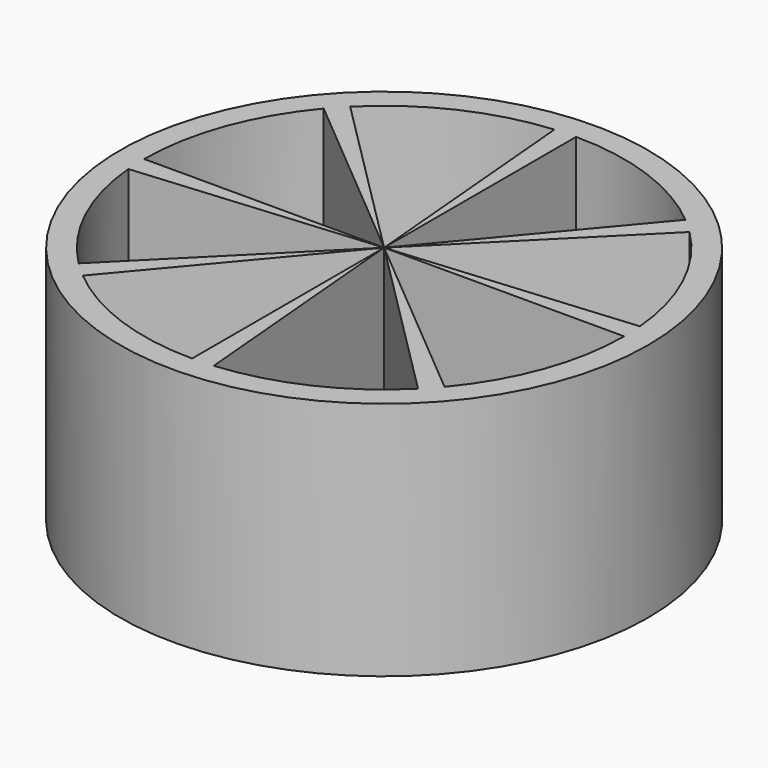
from build123d import *

# Parameters (mm, degrees)
CYLINDER001_W     = 10
CYLINDER001_H     = 10
CYLINDER001_ANGLE = 320
CYLINDER_R        = 10
CYLINDER_DEPTH    = 10
ARRAY_COUNT       = 8
CYLINDER002_R     = 11
CYLINDER002_DEPTH = 10


with BuildPart() as cilindro:
    # Cylinder001 → Cylinder001 (revolve)
    with BuildSketch(Plane.XZ):
        with Locations((5, 5)):
            Rectangle(CYLINDER001_W, CYLINDER001_H)
    revolve(axis=Axis((0, 0, 0), (0, 0, 1)), revolution_arc=CYLINDER001_ANGLE)


with BuildPart() as array:
    # Cylinder → Cylinder (new body)
    with BuildSketch(Plane.XY):
        Circle(CYLINDER_R)
    extrude(amount=CYLINDER_DEPTH)

    # Cut: cut Cilindro
    add(cilindro.part, mode=Mode.SUBTRACT)


with BuildPart() as array_1:
    # Cut placement: moved
    add(array.part.moved(Location((0, 0, 3))))

    # Array: Array ×8 about axis
    array_axis = Axis((0, 0, 0), (0, 0, 1))


with BuildPart() as array_2:
    add(array_1.part)
    for i in range(1, ARRAY_COUNT):
        add(array_1.part.rotate(array_axis, i * 360 / ARRAY_COUNT))


with BuildPart() as cut001:
    # Cylinder002 → Cylinder002 (new body)
    with BuildSketch(Plane.XY):
        Circle(CYLINDER002_R)
    extrude(amount=CYLINDER002_DEPTH)

    # Cut001: cut Array
    add(array_2.part, mode=Mode.SUBTRACT)


solid = cut001.part
